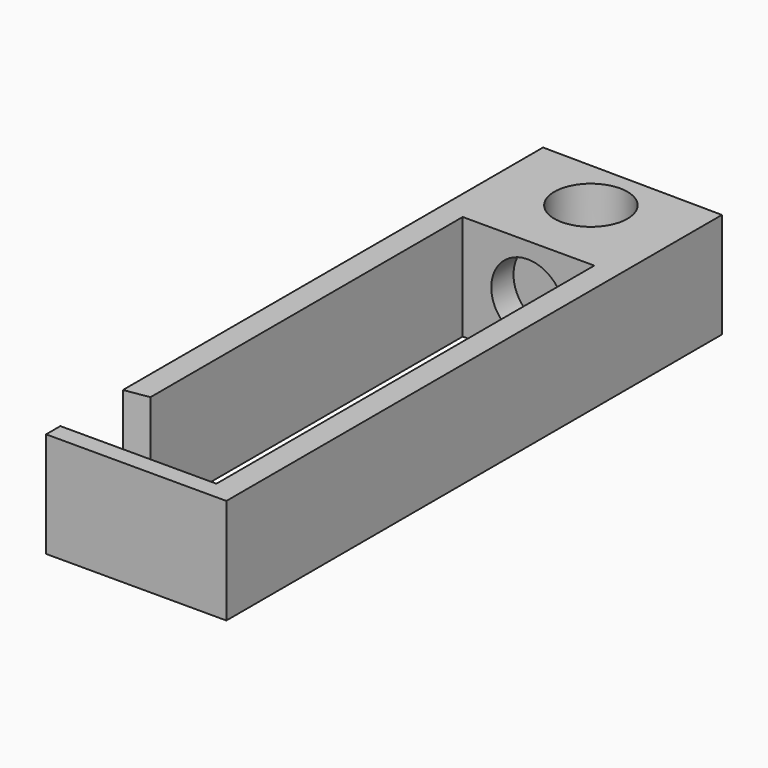
from build123d import *

# Parameters (mm, degrees)
F0_R     = 2.5
F1_DEPTH = 3.6
F2_W     = 9
F2_H     = 7.2
F2_R     = 2.5
F3_DEPTH = 0.8
F4_DEPTH = 1.9


with BuildPart() as f1:
    # F0 (on Top) → F1 (new body, symmetric)
    with BuildSketch(Plane.XY):
        Polygon((-23.254177, -13.525072), (-23.254177, 15.064048), (-14.254177, 15.064048), (-14.254177, -19.138907), (-24.92434, -19.138907), (-24.92434, -20.359321), (-12.594674, -20.359321), (-12.594674, 21.997963), (-24.92434, 22.119868), (-24.92434, -13.792475), align=None)
        with Locations((-18.754847, 18.500099)):
            Circle(F0_R, mode=Mode.SUBTRACT)
    extrude(amount=F1_DEPTH, both=True)

    # F2 (on face) → F3 (join)
    with BuildSketch(Plane.XZ.offset(-15.064048)):
        with Locations((-18.754177, 0)):
            Rectangle(F2_W, F2_H)
        with Locations((-18.800411, 0)):
            Circle(F2_R, mode=Mode.SUBTRACT)
    extrude(amount=F3_DEPTH)

    # F2 (on face) → F4 (join)
    with BuildSketch(Plane.XZ.offset(-15.064048)):
        with Locations((-18.754177, 0)):
            Rectangle(F2_W, F2_H)
        with Locations((-18.800411, 0)):
            Circle(F2_R, mode=Mode.SUBTRACT)
    extrude(amount=F4_DEPTH)


solid = f1.part
